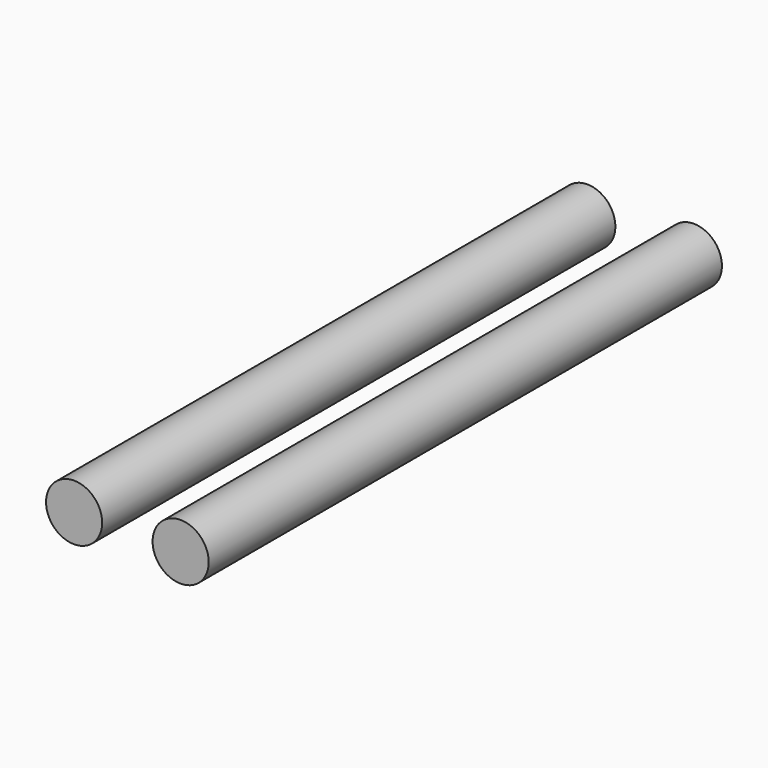
from build123d import *

# Parameters (mm, degrees)
F0_R     = 4.445
F1_DEPTH = 101.6


with BuildPart() as f1:
    # F0 (on Front) → F1 (new body)
    with BuildSketch(Plane.XZ):
        Circle(F0_R)
        with Locations((16.874148, 0)):
            Circle(F0_R)
    extrude(amount=F1_DEPTH)


solid = f1.part
